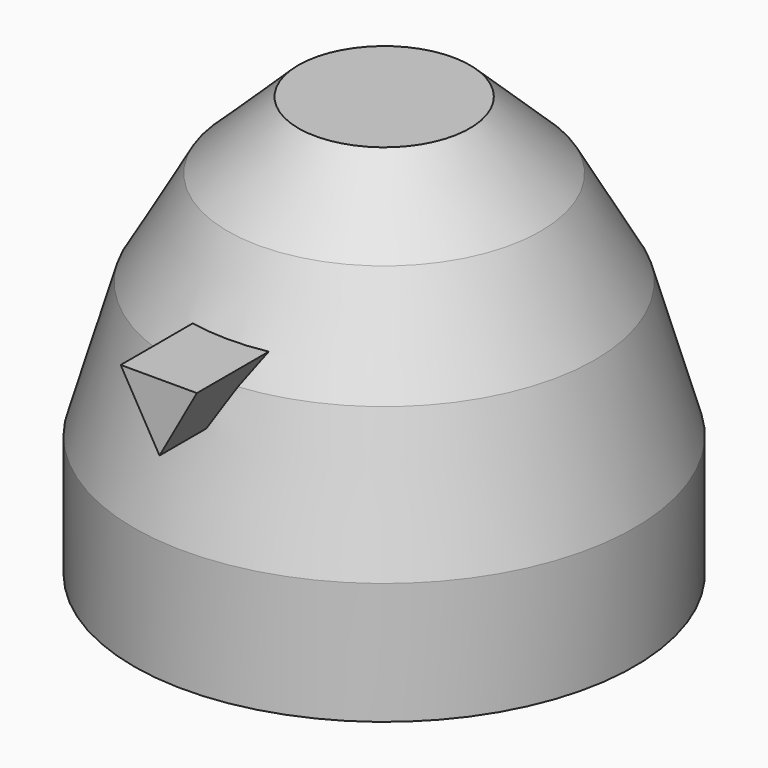
from build123d import *

# Parameters (mm, degrees)
F3_DEPTH = 50.8


with BuildPart() as f1:
    # F0 (on Front) → F1 (revolve)
    with BuildSketch(Plane.XZ):
        Polygon((-45.2943, -32.033801), (0, -32.033801), (0, 43.953352), (-15.49542, 43.953352), (-28.308939, 31.735811), (-38.142569, 14.452458), (-45.2943, -9.982626), align=None)
    revolve(axis=Axis((0, 0, 5.959775), (0, 0, -1)))

    # F2 (on Front) → F3 (join)
    with BuildSketch(Plane.XZ):
        Polygon((6.767772, 19.607749), (-7.021107, 19.607749), (0, 7.457786), align=None)
    extrude(amount=F3_DEPTH)


solid = f1.part
